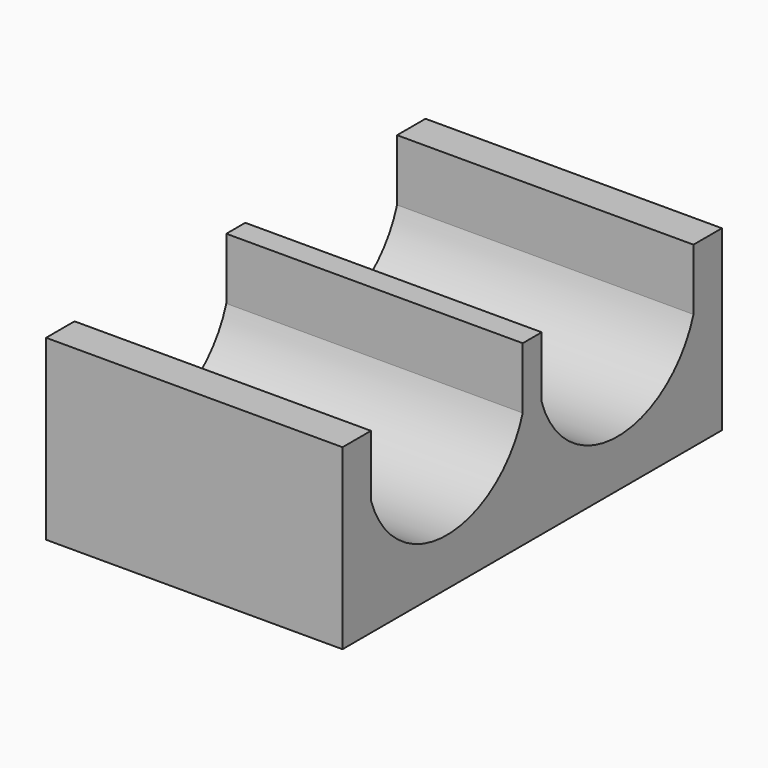
from build123d import *

# Parameters (mm, degrees)
F1_DEPTH = 25


with BuildPart() as f1:
    # F0 (on Right) → F1 (new body)
    with BuildSketch(Plane.YZ):
        with BuildLine():
            Line((-20, -7.5), (20, -7.5))
            Line((20, -7.5), (20, 7.5))
            Line((20, 7.5), (17, 7.5))
            Line((17, 7.5), (17, 2.318182))
            ThreePointArc((17, 2.318182), (9, -3.5), (1, 2.318182))
            Line((1, 2.318182), (1, 7.5))
            Line((1, 7.5), (-1, 7.5))
            Line((-1, 7.5), (-1, 2.318182))
            ThreePointArc((-1, 2.318182), (-9, -3.5), (-17, 2.318182))
            Line((-17, 2.318182), (-17, 7.5))
            Line((-17, 7.5), (-20, 7.5))
            Line((-20, 7.5), (-20, -7.5))
        make_face()
    extrude(amount=F1_DEPTH)


solid = f1.part
